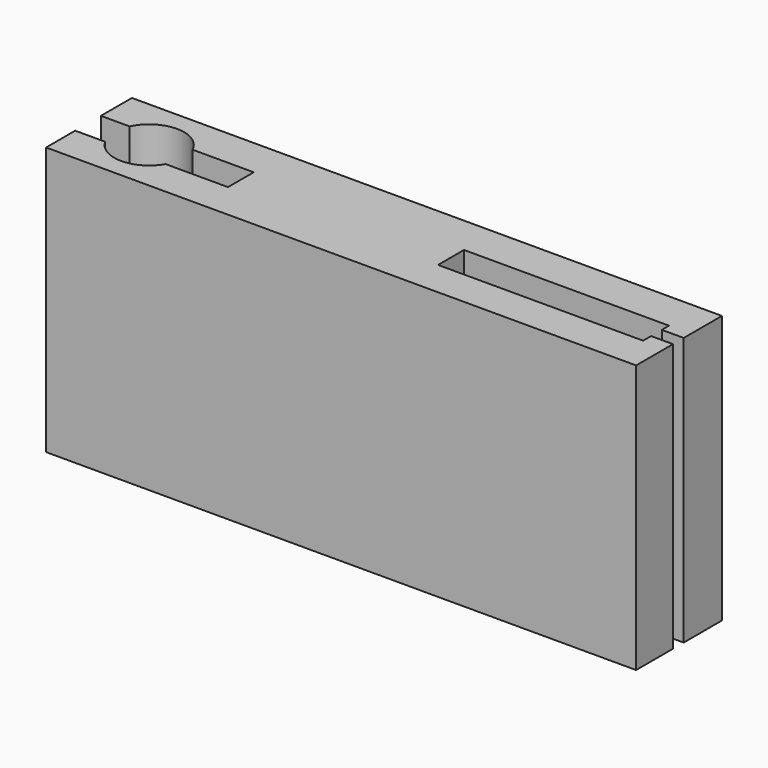
from build123d import *

# Parameters (mm, degrees)
F1_DEPTH = 25


with BuildPart() as f1:
    # F0 (on Top) → F1 (new body)
    with BuildSketch(Plane.XY):
        with BuildLine():
            Line((0, 3.389403), (0, 0))
            Line((0, 0), (55, 0))
            Line((55, 0), (55, 4.299324))
            Line((55, 4.299324), (52.960072, 4.299324))
            Line((52.960072, 4.299324), (52.960072, 3.365321))
            Line((52.960072, 3.365321), (33.844903, 3.365321))
            Line((33.844903, 3.365321), (33.844903, 6.389403))
            Line((33.844903, 6.389403), (52.960072, 6.389403))
            Line((52.960072, 6.389403), (52.960072, 5.547564))
            Line((52.960072, 5.547564), (55, 5.547564))
            Line((55, 5.547564), (55, 10))
            Line((55, 10), (0, 10))
            Line((0, 10), (0, 6.389403))
            Line((0, 6.389403), (2.672243, 6.389403))
            ThreePointArc((2.672243, 6.389403), (5.61028, 8.25), (8.548316, 6.389403))
            Line((8.548316, 6.389403), (14.242436, 6.389403))
            Line((14.242436, 6.389403), (14.242436, 3.389403))
            Line((14.242436, 3.389403), (8.433129, 3.389403))
            ThreePointArc((8.433129, 3.389403), (5.61028, 1.75), (2.787431, 3.389403))
            Line((2.787431, 3.389403), (0, 3.389403))
        make_face()
    extrude(amount=F1_DEPTH)


solid = f1.part
